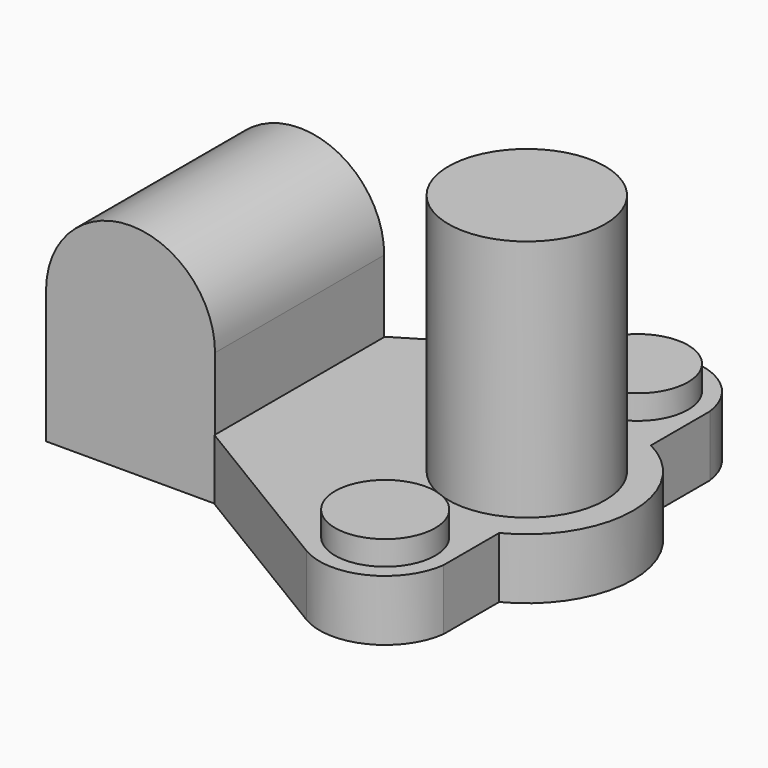
from build123d import *

# Parameters (mm, degrees)
F1_DEPTH = 12.7
F3_DEPTH = 22.098
F4_R     = 10.467078
F5_DEPTH = 5.08
F4_R_2   = 16.364027
F6_DEPTH = 50.8


with BuildPart() as f1:
    # F0 (on Top) → F1 (new body)
    with BuildSketch(Plane.XY):
        with BuildLine():
            Line((37.184291, 44.746361), (0, 22.240981))
            Line((0, 22.240981), (0, -22.240981))
            Line((0, -22.240981), (37.184291, -44.746361))
            ThreePointArc((37.184291, -44.746361), (50.233245, -45.374882), (57.894561, -34.793083))
            Line((57.894561, -34.793083), (57.894561, -20.243236))
            ThreePointArc((57.894561, -20.243236), (70.048598, -0.422585), (57.894561, 19.398067))
            Line((57.894561, 19.398067), (57.894561, 34.793083))
            ThreePointArc((57.894561, 34.793083), (50.233245, 45.374882), (37.184291, 44.746361))
        make_face()
    extrude(amount=F1_DEPTH)

    # F4 (on face) → F5 (join)
    with BuildSketch(Plane.XY.offset(12.7)):
        with Locations((44.289342, -33.007113)):
            Circle(F4_R)
        with Locations((44.289342, 33.007113)):
            Circle(F4_R)
    extrude(amount=F5_DEPTH)

    # F4 (on face) → F6 (join)
    with BuildSketch(Plane.XY.offset(12.7)):
        with Locations((47.809943, -0.422585)):
            Circle(F4_R_2)
    extrude(amount=F6_DEPTH)


with BuildPart() as f3:
    # F2 (on Front) → F3 (new body, symmetric)
    with BuildSketch(Plane.XZ):
        with BuildLine():
            Line((-35.306428, 0), (0, 0))
            Line((0, 0), (0, 27.788708))
            ThreePointArc((0, 27.788708), (-17.519985, 45.442432), (-35.306428, 28.057199))
            Line((-35.306428, 28.057199), (-35.306428, 0))
        make_face()
    extrude(amount=F3_DEPTH, both=True)


solid = Compound([f1.part, f3.part])
